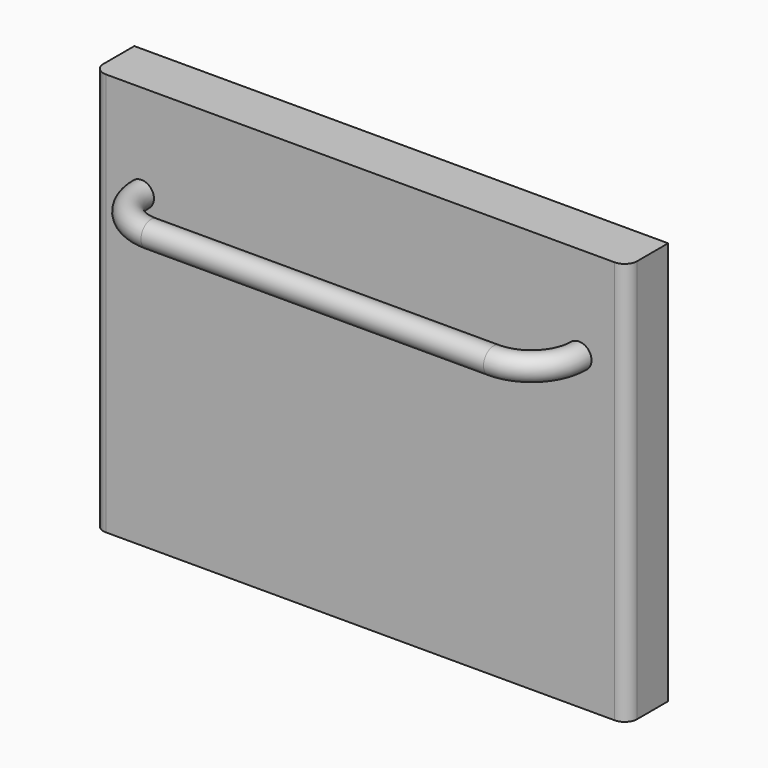
from build123d import *

# Parameters (mm, degrees)
F0_W     = 427
F0_H     = 322.5
F1_DEPTH = 41
F2_R     = 10
F3_W     = 407
F3_H     = 302.5
F4_DEPTH = 10
F5_R     = 10


with BuildPart() as f1:
    # F0 (on Front) → F1 (new body)
    with BuildSketch(Plane.XZ):
        Rectangle(F0_W, F0_H)
    extrude(amount=F1_DEPTH)

    # F2
    f2_edges = [f1.edges().sort_by_distance(p)[0] for p in [
        (-213.5, -41, 0),
        (213.5, -41, 0),
    ]]
    fillet(f2_edges, radius=F2_R)

    # F8: sweep along a path in F7
    with BuildLine(Plane.XY.offset(86.25)) as f8_path:
        ThreePointArc((-175, -41), (-163.8700576851, -67.8700576851), (-137, -79))
        Line((-137, -79), (137, -79))
        ThreePointArc((137, -79), (163.8700576851, -67.8700576851), (175, -41))
    # F5 (on face) → F8 (sweep)
    with BuildSketch(Plane.XZ.offset(41)):
        with Locations((-175, 86.25)):
            Circle(F5_R)
    sweep(path=f8_path.line)


with BuildPart() as f4:
    # F3 (on face) → F4 (new body)
    with BuildSketch(Plane(origin=(0, 0, 0), x_dir=(-1, 0, 0), z_dir=(0, 1, 0))):
        Rectangle(F3_W, F3_H)
    extrude(amount=F4_DEPTH)


solid = Compound([f1.part, f4.part])
